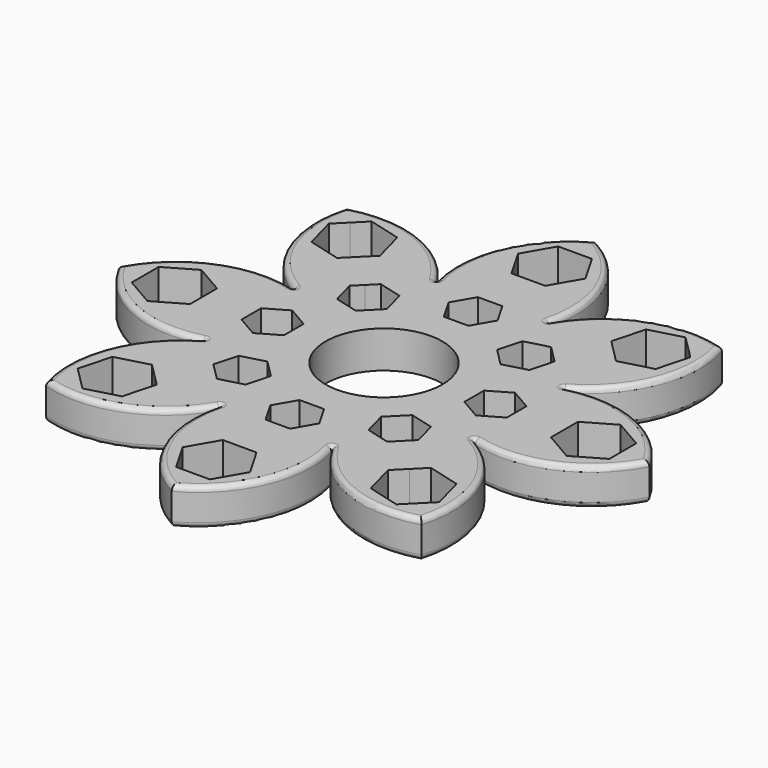
from build123d import *

# Parameters (mm, degrees)
F0_R     = 11
F1_DEPTH = 7
F2_R     = 0.05
F3_R     = 1


with BuildPart() as f1:
    # F0 (on Top) → F1 (new body)
    with BuildSketch(Plane.XY):
        with BuildLine():
            ThreePointArc((-10.4314698822, 25.1837960652), (-9.4534617137, 23.1380893199), (-8.6984848098, 21))
            Line((-8.6984848098, 21), (-4.6188021535, 21))
            Line((-4.6188021535, 21), (-2.3094010768, 25))
            Line((-2.3094010768, 25), (0, 25))
            Line((0, 25), (0, 34))
            Line((0, 34), (-3.1754264805, 34))
            Line((-3.1754264805, 34), (-6.3508529611, 39.5))
            Line((-6.3508529611, 39.5), (-3.1754264805, 45))
            Line((-3.1754264805, 45), (0, 45))
            Line((0, 45), (0, 50))
            ThreePointArc((0, 50), (-9.6336340047, 39.4489580868), (-10.4314698822, 25.1837960652))
        make_face()
        with BuildLine():
            Line((-11.5832560812, 18.1152287286), (-8.6984848098, 21))
            ThreePointArc((-8.6984848098, 21), (-9.6764929784, 23.0457067452), (-10.4314698822, 25.1837960652))
            ThreePointArc((-10.4314698822, 25.1837960652), (-21.0826178417, 34.7066337061), (-35.3553390593, 35.3553390593))
            Line((-35.3553390593, 35.3553390593), (-31.8198051534, 31.8198051534))
            Line((-31.8198051534, 31.8198051534), (-29.5744395558, 34.0651707509))
            Line((-29.5744395558, 34.0651707509), (-23.4399866618, 32.421449052))
            Line((-23.4399866618, 32.421449052), (-21.7962649628, 26.2869961579))
            Line((-21.7962649628, 26.2869961579), (-24.0416305603, 24.0416305603))
            Line((-24.0416305603, 24.0416305603), (-17.6776695297, 17.6776695297))
            Line((-17.6776695297, 17.6776695297), (-16.0446763678, 19.3106626915))
            Line((-16.0446763678, 19.3106626915), (-11.5832560812, 18.1152287286))
        make_face()
        with BuildLine():
            ThreePointArc((-10.4314698822, 25.1837960652), (-9.6764929784, 23.0457067452), (-8.6984848098, 21))
            ThreePointArc((-8.6984848098, 21), (-9.4534617137, 23.1380893199), (-10.4314698822, 25.1837960652))
        make_face()
        with BuildLine():
            ThreePointArc((10.4365626263, 25.2011301159), (9.6301317624, 39.4572848894), (0, 50))
            Line((0, 50), (0, 45))
            Line((0, 45), (3.1754264805, 45))
            Line((3.1754264805, 45), (6.3508529611, 39.5))
            Line((6.3508529611, 39.5), (3.1754264805, 34))
            Line((3.1754264805, 34), (0, 34))
            Line((0, 34), (0, 25))
            Line((0, 25), (2.3094010768, 25))
            Line((2.3094010768, 25), (4.6188021535, 21))
            Line((4.6188021535, 21), (8.6984848098, 21))
            ThreePointArc((8.6984848098, 21), (9.4551487595, 23.1470564584), (10.4365626263, 25.2011301159))
        make_face()
        with BuildLine():
            Line((-31.8198051534, 31.8198051534), (-35.3553390593, 35.3553390593))
            ThreePointArc((-35.3553390593, 35.3553390593), (-34.7066337061, 21.0826178417), (-25.1837960652, 10.4314698822))
            ThreePointArc((-25.1837960652, 10.4314698822), (-23.0457067452, 9.6764929784), (-21, 8.6984848098))
            Line((-21, 8.6984848098), (-18.1152287286, 11.5832560812))
            Line((-18.1152287286, 11.5832560812), (-19.3106626915, 16.0446763678))
            Line((-19.3106626915, 16.0446763678), (-17.6776695297, 17.6776695297))
            Line((-17.6776695297, 17.6776695297), (-24.0416305603, 24.0416305603))
            Line((-24.0416305603, 24.0416305603), (-26.2869961579, 21.7962649628))
            Line((-26.2869961579, 21.7962649628), (-32.421449052, 23.4399866618))
            Line((-32.421449052, 23.4399866618), (-34.0651707509, 29.5744395558))
            Line((-34.0651707509, 29.5744395558), (-31.8198051534, 31.8198051534))
        make_face()
        with BuildLine():
            ThreePointArc((35.3765522628, 35.3765522628), (21.0946796825, 34.7297589179), (10.4365626263, 25.2011301159))
            ThreePointArc((10.4365626263, 25.2011301159), (9.6799481203, 23.0540532018), (8.6984848098, 21))
            Line((8.6984848098, 21), (11.5832560812, 18.1152287286))
            Line((11.5832560812, 18.1152287286), (16.0446763678, 19.3106626915))
            Line((16.0446763678, 19.3106626915), (17.6776695297, 17.6776695297))
            Line((17.6776695297, 17.6776695297), (24.0416305603, 24.0416305603))
            Line((24.0416305603, 24.0416305603), (21.7962649628, 26.2869961579))
            Line((21.7962649628, 26.2869961579), (23.4399866618, 32.421449052))
            Line((23.4399866618, 32.421449052), (29.5744395558, 34.0651707509))
            Line((29.5744395558, 34.0651707509), (31.8198051534, 31.8198051534))
            Line((31.8198051534, 31.8198051534), (35.3765522628, 35.3765522628))
        make_face()
        with BuildLine():
            ThreePointArc((8.6984848098, 21), (9.6799481203, 23.0540532018), (10.4365626263, 25.2011301159))
            ThreePointArc((10.4365626263, 25.2011301159), (9.4551487595, 23.1470564584), (8.6984848098, 21))
        make_face()
        with BuildLine():
            ThreePointArc((-21, 8.6984848098), (-23.1380893199, 9.4534617137), (-25.1837960652, 10.4314698822))
            ThreePointArc((-25.1837960652, 10.4314698822), (-39.4489580868, 9.6336340047), (-50, 0))
            Line((-50, 0), (-45, 0))
            Line((-45, 0), (-45, 3.1754264805))
            Line((-45, 3.1754264805), (-39.5, 6.3508529611))
            Line((-39.5, 6.3508529611), (-34, 3.1754264805))
            Line((-34, 3.1754264805), (-34, 0))
            Line((-34, 0), (-25, 0))
            Line((-25, 0), (-25, 2.3094010768))
            Line((-25, 2.3094010768), (-21, 4.6188021535))
            Line((-21, 4.6188021535), (-21, 8.6984848098))
        make_face()
        with BuildLine():
            ThreePointArc((-21, 8.6984848098), (-23.0457067452, 9.6764929784), (-25.1837960652, 10.4314698822))
            ThreePointArc((-25.1837960652, 10.4314698822), (-23.1380893199, 9.4534617137), (-21, 8.6984848098))
        make_face()
        with BuildLine():
            ThreePointArc((25.2011301159, 10.4365626263), (34.7297589179, 21.0946796825), (35.3765522628, 35.3765522628))
            Line((35.3765522628, 35.3765522628), (31.8198051534, 31.8198051534))
            Line((31.8198051534, 31.8198051534), (34.0651707509, 29.5744395558))
            Line((34.0651707509, 29.5744395558), (32.421449052, 23.4399866618))
            Line((32.421449052, 23.4399866618), (26.2869961579, 21.7962649628))
            Line((26.2869961579, 21.7962649628), (24.0416305603, 24.0416305603))
            Line((24.0416305603, 24.0416305603), (17.6776695297, 17.6776695297))
            Line((17.6776695297, 17.6776695297), (19.3106626915, 16.0446763678))
            Line((19.3106626915, 16.0446763678), (18.1152287286, 11.5832560812))
            Line((18.1152287286, 11.5832560812), (21, 8.6984848098))
            ThreePointArc((21, 8.6984848098), (23.0540532018, 9.6799481203), (25.2011301159, 10.4365626263))
        make_face()
        with BuildLine():
            Line((-45, 0), (-50, 0))
            ThreePointArc((-50, 0), (-39.4572848894, -9.6301317624), (-25.2011301159, -10.4365626263))
            ThreePointArc((-25.2011301159, -10.4365626263), (-23.1470564584, -9.4551487595), (-21, -8.6984848098))
            Line((-21, -8.6984848098), (-21, -4.6188021535))
            Line((-21, -4.6188021535), (-25, -2.3094010768))
            Line((-25, -2.3094010768), (-25, 0))
            Line((-25, 0), (-34, 0))
            Line((-34, 0), (-34, -3.1754264805))
            Line((-34, -3.1754264805), (-39.5, -6.3508529611))
            Line((-39.5, -6.3508529611), (-45, -3.1754264805))
            Line((-45, -3.1754264805), (-45, 0))
        make_face()
        with BuildLine():
            ThreePointArc((50, 0), (39.4572848894, 9.6301317624), (25.2011301159, 10.4365626263))
            ThreePointArc((25.2011301159, 10.4365626263), (23.1470564584, 9.4551487595), (21, 8.6984848098))
            Line((21, 8.6984848098), (21, 4.6188021535))
            Line((21, 4.6188021535), (25, 2.3094010768))
            Line((25, 2.3094010768), (25, 0))
            Line((25, 0), (34, 0))
            Line((34, 0), (34, 3.1754264805))
            Line((34, 3.1754264805), (39.5, 6.3508529611))
            Line((39.5, 6.3508529611), (45, 3.1754264805))
            Line((45, 3.1754264805), (45, 0))
            Line((45, 0), (50, 0))
        make_face()
        with BuildLine():
            ThreePointArc((21, 8.6984848098), (23.1470564584, 9.4551487595), (25.2011301159, 10.4365626263))
            ThreePointArc((25.2011301159, 10.4365626263), (23.0540532018, 9.6799481203), (21, 8.6984848098))
        make_face()
        with BuildLine():
            ThreePointArc((-21, -8.6984848098), (-23.0540532018, -9.6799481203), (-25.2011301159, -10.4365626263))
            ThreePointArc((-25.2011301159, -10.4365626263), (-34.7297589179, -21.0946796825), (-35.3765522628, -35.3765522628))
            Line((-35.3765522628, -35.3765522628), (-31.8198051534, -31.8198051534))
            Line((-31.8198051534, -31.8198051534), (-34.0651707509, -29.5744395558))
            Line((-34.0651707509, -29.5744395558), (-32.421449052, -23.4399866618))
            Line((-32.421449052, -23.4399866618), (-26.2869961579, -21.7962649628))
            Line((-26.2869961579, -21.7962649628), (-24.0416305603, -24.0416305603))
            Line((-24.0416305603, -24.0416305603), (-17.6776695297, -17.6776695297))
            Line((-17.6776695297, -17.6776695297), (-19.3106626915, -16.0446763678))
            Line((-19.3106626915, -16.0446763678), (-18.1152287286, -11.5832560812))
            Line((-18.1152287286, -11.5832560812), (-21, -8.6984848098))
        make_face()
        with BuildLine():
            ThreePointArc((-21, -8.6984848098), (-23.1470564584, -9.4551487595), (-25.2011301159, -10.4365626263))
            ThreePointArc((-25.2011301159, -10.4365626263), (-23.0540532018, -9.6799481203), (-21, -8.6984848098))
        make_face()
        with BuildLine():
            ThreePointArc((25.1837960652, -10.4314698822), (39.4489580868, -9.6336340047), (50, 0))
            Line((50, 0), (45, 0))
            Line((45, 0), (45, -3.1754264805))
            Line((45, -3.1754264805), (39.5, -6.3508529611))
            Line((39.5, -6.3508529611), (34, -3.1754264805))
            Line((34, -3.1754264805), (34, 0))
            Line((34, 0), (25, 0))
            Line((25, 0), (25, -2.3094010768))
            Line((25, -2.3094010768), (21, -4.6188021535))
            Line((21, -4.6188021535), (21, -8.6984848098))
            ThreePointArc((21, -8.6984848098), (23.1380893199, -9.4534617137), (25.1837960652, -10.4314698822))
        make_face()
        with BuildLine():
            Line((-31.8198051534, -31.8198051534), (-35.3765522628, -35.3765522628))
            ThreePointArc((-35.3765522628, -35.3765522628), (-21.0946796825, -34.7297589179), (-10.4365626263, -25.2011301159))
            ThreePointArc((-10.4365626263, -25.2011301159), (-9.6799481203, -23.0540532018), (-8.6984848098, -21))
            Line((-8.6984848098, -21), (-11.5832560812, -18.1152287286))
            Line((-11.5832560812, -18.1152287286), (-16.0446763678, -19.3106626915))
            Line((-16.0446763678, -19.3106626915), (-17.6776695297, -17.6776695297))
            Line((-17.6776695297, -17.6776695297), (-24.0416305603, -24.0416305603))
            Line((-24.0416305603, -24.0416305603), (-21.7962649628, -26.2869961579))
            Line((-21.7962649628, -26.2869961579), (-23.4399866618, -32.421449052))
            Line((-23.4399866618, -32.421449052), (-29.5744395558, -34.0651707509))
            Line((-29.5744395558, -34.0651707509), (-31.8198051534, -31.8198051534))
        make_face()
        with BuildLine():
            ThreePointArc((35.3553390593, -35.3553390593), (34.7066337061, -21.0826178417), (25.1837960652, -10.4314698822))
            ThreePointArc((25.1837960652, -10.4314698822), (23.0457067452, -9.6764929784), (21, -8.6984848098))
            Line((21, -8.6984848098), (18.1152287286, -11.5832560812))
            Line((18.1152287286, -11.5832560812), (19.3106626915, -16.0446763678))
            Line((19.3106626915, -16.0446763678), (17.6776695297, -17.6776695297))
            Line((17.6776695297, -17.6776695297), (24.0416305603, -24.0416305603))
            Line((24.0416305603, -24.0416305603), (26.2869961579, -21.7962649628))
            Line((26.2869961579, -21.7962649628), (32.421449052, -23.4399866618))
            Line((32.421449052, -23.4399866618), (34.0651707509, -29.5744395558))
            Line((34.0651707509, -29.5744395558), (31.8198051534, -31.8198051534))
            Line((31.8198051534, -31.8198051534), (35.3553390593, -35.3553390593))
        make_face()
        with BuildLine():
            ThreePointArc((21, -8.6984848098), (23.0457067452, -9.6764929784), (25.1837960652, -10.4314698822))
            ThreePointArc((25.1837960652, -10.4314698822), (23.1380893199, -9.4534617137), (21, -8.6984848098))
        make_face()
        with BuildLine():
            ThreePointArc((-8.6984848098, -21), (-9.4551487595, -23.1470564584), (-10.4365626263, -25.2011301159))
            ThreePointArc((-10.4365626263, -25.2011301159), (-9.6301317624, -39.4572848894), (0, -50))
            Line((0, -50), (0, -45))
            Line((0, -45), (-3.1754264805, -45))
            Line((-3.1754264805, -45), (-6.3508529611, -39.5))
            Line((-6.3508529611, -39.5), (-3.1754264805, -34))
            Line((-3.1754264805, -34), (0, -34))
            Line((0, -34), (0, -25))
            Line((0, -25), (-2.3094010768, -25))
            Line((-2.3094010768, -25), (-4.6188021535, -21))
            Line((-4.6188021535, -21), (-8.6984848098, -21))
        make_face()
        with BuildLine():
            ThreePointArc((-8.6984848098, -21), (-9.6799481203, -23.0540532018), (-10.4365626263, -25.2011301159))
            ThreePointArc((-10.4365626263, -25.2011301159), (-9.4551487595, -23.1470564584), (-8.6984848098, -21))
        make_face()
        with BuildLine():
            ThreePointArc((10.4314698822, -25.1837960652), (21.0826178417, -34.7066337061), (35.3553390593, -35.3553390593))
            Line((35.3553390593, -35.3553390593), (31.8198051534, -31.8198051534))
            Line((31.8198051534, -31.8198051534), (29.5744395558, -34.0651707509))
            Line((29.5744395558, -34.0651707509), (23.4399866618, -32.421449052))
            Line((23.4399866618, -32.421449052), (21.7962649628, -26.2869961579))
            Line((21.7962649628, -26.2869961579), (24.0416305603, -24.0416305603))
            Line((24.0416305603, -24.0416305603), (17.6776695297, -17.6776695297))
            Line((17.6776695297, -17.6776695297), (16.0446763678, -19.3106626915))
            Line((16.0446763678, -19.3106626915), (11.5832560812, -18.1152287286))
            Line((11.5832560812, -18.1152287286), (8.6984848098, -21))
            ThreePointArc((8.6984848098, -21), (9.6764929784, -23.0457067452), (10.4314698822, -25.1837960652))
        make_face()
        with BuildLine():
            Line((0, -45), (0, -50))
            ThreePointArc((0, -50), (9.6336340047, -39.4489580868), (10.4314698822, -25.1837960652))
            ThreePointArc((10.4314698822, -25.1837960652), (9.4534617137, -23.1380893199), (8.6984848098, -21))
            Line((8.6984848098, -21), (4.6188021535, -21))
            Line((4.6188021535, -21), (2.3094010768, -25))
            Line((2.3094010768, -25), (0, -25))
            Line((0, -25), (0, -34))
            Line((0, -34), (3.1754264805, -34))
            Line((3.1754264805, -34), (6.3508529611, -39.5))
            Line((6.3508529611, -39.5), (3.1754264805, -45))
            Line((3.1754264805, -45), (0, -45))
        make_face()
        with BuildLine():
            ThreePointArc((8.6984848098, -21), (9.4534617137, -23.1380893199), (10.4314698822, -25.1837960652))
            ThreePointArc((10.4314698822, -25.1837960652), (9.6764929784, -23.0457067452), (8.6984848098, -21))
        make_face()
        Polygon((-4.6188021535, 21), (-8.6984848098, 21), (-11.5832560812, 18.1152287286), (-10.3878221183, 13.653808442), (-13.653808442, 10.3878221183), (-18.1152287286, 11.5832560812), (-21, 8.6984848098), (-21, 4.6188021535), (-17, 2.3094010768), (-17, -2.3094010768), (-21, -4.6188021535), (-21, -8.6984848098), (-18.1152287286, -11.5832560812), (-13.653808442, -10.3878221183), (-10.3878221183, -13.653808442), (-11.5832560812, -18.1152287286), (-8.6984848098, -21), (-4.6188021535, -21), (-2.3094010768, -17), (2.3094010768, -17), (4.6188021535, -21), (8.6984848098, -21), (11.5832560812, -18.1152287286), (10.3878221183, -13.653808442), (13.653808442, -10.3878221183), (18.1152287286, -11.5832560812), (21, -8.6984848098), (21, -4.6188021535), (17, -2.3094010768), (17, 2.3094010768), (21, 4.6188021535), (21, 8.6984848098), (18.1152287286, 11.5832560812), (13.653808442, 10.3878221183), (10.3878221183, 13.653808442), (11.5832560812, 18.1152287286), (8.6984848098, 21), (4.6188021535, 21), (2.3094010768, 17), (-2.3094010768, 17), align=None)
        Circle(F0_R, mode=Mode.SUBTRACT)
    extrude(amount=F1_DEPTH)

    # F2
    f2_edges = [f1.edges().sort_by_distance(p)[0] for p in [
        (10.43147, -25.183796, 3.5),
        (25.183796, -10.43147, 3.5),
        (25.20113, 10.436563, 3.5),
        (10.436563, 25.20113, 3.5),
        (-10.43147, 25.183796, 3.5),
        (-25.183796, 10.43147, 3.5),
        (-25.20113, -10.436563, 3.5),
        (-10.436563, -25.20113, 3.5),
    ]]
    fillet(f2_edges, radius=F2_R)

    # F3
    f3_edges = [f1.edges().sort_by_distance(p)[0] for p in [
        (-21.291952, -34.809099, 0),
        (9.549994, -39.64518, 0),
        (9.549994, -39.64518, 7),
        (-9.546676, -39.652851, 7),
        (-34.809099, -21.291952, 0),
        (-34.809099, -21.291952, 7),
        (9.546676, 39.652851, 0),
        (9.546676, 39.652851, 7),
        (-9.549994, 39.64518, 0),
        (-9.549994, 39.64518, 7),
        (-34.786241, 21.28051, 7),
        (-34.786241, 21.28051, 0),
        (34.786241, -21.28051, 0),
        (34.786241, -21.28051, 7),
        (39.652851, 9.546676, 0),
        (34.809099, 21.291952, 7),
    ]]
    fillet(f3_edges, radius=F3_R)


solid = f1.part
